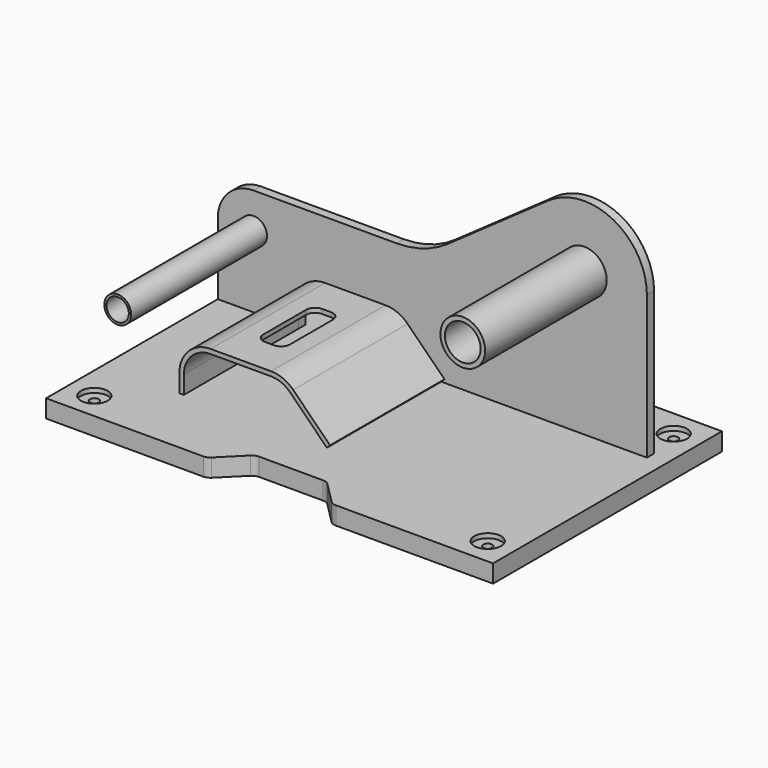
from build123d import *

# Parameters (mm, degrees)
F0_R           = 19.05
F0_R_2         = 31.75
F1_DEPTH       = 12.7
F3_DEPTH       = 25.4
F5_DEPTH       = 203.2
F6_R           = 31.75
F6_R_2         = 25.4000000767
F7_DEPTH       = 228.6
F8_R           = 19.05
F8_R_2         = 6.35
F9_DEPTH       = 6.35
F10_D          = 12.7
F11_R          = 19.05
F11_R_2        = 15.875
F12_DEPTH      = 25.4
F12_DEPTH_BACK = 254
F14_DEPTH      = 25.4


with BuildPart() as f1:
    # F0 (on Front) → F1 (new body)
    with BuildSketch(Plane.XZ):
        with BuildLine():
            Line((0, 101.6), (0, 0))
            Line((0, 0), (114.3, 0))
            Line((114.3, 0), (114.3, 25.4))
            ThreePointArc((114.3, 25.4), (125.4592316368, 52.3407683632), (152.4, 63.5))
            Line((152.4, 63.5), (238.2184632736, 63.5))
            ThreePointArc((238.2184632736, 63.5), (252.7987020467, 60.5998101887), (265.1592316368, 52.3407683632))
            Line((265.1592316368, 52.3407683632), (317.5, 0))
            Line((317.5, 0), (609.6, 0))
            Line((609.6, 0), (609.6, 203.2))
            ThreePointArc((609.6, 203.2), (561.634643106, 282.1149225038), (469.4973004774, 275.8738850041))
            Line((469.4973004774, 275.8738850041), (327.1467136038, 175.5801642798))
            ThreePointArc((327.1467136038, 175.5801642798), (292.3658758764, 158.3336563357), (254, 152.4))
            Line((254, 152.4), (50.8, 152.4))
            ThreePointArc((50.8, 152.4), (14.8789755157, 137.5210244843), (0, 101.6))
        make_face()
        with Locations((50.8, 101.6)):
            Circle(F0_R, mode=Mode.SUBTRACT)
        with Locations((520.7, 203.2)):
            Circle(F0_R_2, mode=Mode.SUBTRACT)
    extrude(amount=F1_DEPTH)


with BuildPart() as f3:
    # F2 (on face) → F3 (new body)
    with BuildSketch(Plane(origin=(0, 0, 0), x_dir=(1, 0, 0), z_dir=(0, 0, -1))):
        with BuildLine():
            Line((411.6605122421, -88.7394899882), (635, -88.7394899882))
            Line((635, -88.7394899882), (635, 317.6605100118))
            Line((635, 317.6605100118), (411.6605122421, 317.6605100118))
            ThreePointArc((411.6605122421, 317.6605100118), (406.8004326511, 316.6937800747), (402.6802561211, 313.9407661328))
            Line((402.6802561211, 313.9407661328), (372.0197438789, 283.2802538907))
            ThreePointArc((372.0197438789, 283.2802538907), (367.8995673489, 280.5272399489), (363.0394877579, 279.5605100118))
            Line((363.0394877579, 279.5605100118), (271.9605122421, 279.5605100118))
            ThreePointArc((271.9605122421, 279.5605100118), (267.1004326511, 280.5272399489), (262.9802561211, 283.2802538907))
            Line((262.9802561211, 283.2802538907), (232.3197438789, 313.9407661328))
            ThreePointArc((232.3197438789, 313.9407661328), (228.1995673489, 316.6937800747), (223.3394877579, 317.6605100118))
            Line((223.3394877579, 317.6605100118), (0, 317.6605100118))
            Line((0, 317.6605100118), (0, -88.7394899882))
            Line((0, -88.7394899882), (223.3394877579, -88.7394899882))
            ThreePointArc((223.3394877579, -88.7394899882), (228.1995673489, -87.7727600511), (232.3197438789, -85.0197461093))
            Line((232.3197438789, -85.0197461093), (262.9802561211, -54.3592338672))
            ThreePointArc((262.9802561211, -54.3592338672), (267.1004326511, -51.6062199253), (271.9605122421, -50.6394899882))
            Line((271.9605122421, -50.6394899882), (363.0394877579, -50.6394899882))
            ThreePointArc((363.0394877579, -50.6394899882), (367.8995673489, -51.6062199253), (372.0197438789, -54.3592338672))
            Line((372.0197438789, -54.3592338672), (402.6802561211, -85.0197461093))
            ThreePointArc((402.6802561211, -85.0197461093), (406.8004326511, -87.7727600511), (411.6605122421, -88.7394899882))
        make_face()
    extrude(amount=F3_DEPTH)

    # F8 (on face) → F9 (cut, symmetric)
    with BuildSketch(Plane.XY):
        with Locations((596.9, 50.6394899882)):
            Circle(F8_R)
        with Locations((596.9, 50.6394899882)):
            Circle(F8_R_2, mode=Mode.SUBTRACT)
        with Locations((38.1, 50.6394899882)):
            Circle(F8_R)
        with Locations((38.1, 50.6394899882)):
            Circle(F8_R_2, mode=Mode.SUBTRACT)
        with Locations((38.1, -279.5605100118)):
            Circle(F8_R)
        with Locations((38.1, -279.5605100118)):
            Circle(F8_R_2, mode=Mode.SUBTRACT)
        with Locations((596.9, -279.5605100118)):
            Circle(F8_R)
        with Locations((596.9, -279.5605100118)):
            Circle(F8_R_2, mode=Mode.SUBTRACT)
        with Locations((596.9, -279.5605100118)):
            Circle(F8_R_2)
        with Locations((596.9, 50.6394899882)):
            Circle(F8_R_2)
        with Locations((38.1, -279.5605100118)):
            Circle(F8_R_2)
        with Locations((38.1, 50.6394899882)):
            Circle(F8_R_2)
    extrude(amount=F9_DEPTH, both=True, mode=Mode.SUBTRACT)

    # F10 (through all)
    with Locations(Plane.XY):
        with Locations((38.1, -279.5605100118), (38.1, 50.6394899882), (596.9, -279.5605100118), (596.9, 50.6394899882)):
            Hole(F10_D / 2)


with BuildPart() as f5:
    # F4 (on face) → F5 (new body)
    with BuildSketch(Plane.XZ.offset(12.7)):
        with BuildLine():
            Line((107.95, 0), (114.3, 0))
            Line((114.3, 0), (114.3, 25.4))
            ThreePointArc((114.3, 25.4), (125.4592316368, 52.3407683632), (152.4, 63.5))
            Line((152.4, 63.5), (238.2184632736, 63.5))
            ThreePointArc((238.2184632736, 63.5), (252.7987020467, 60.5998101887), (265.1592316368, 52.3407683632))
            Line((265.1592316368, 52.3407683632), (317.5, 0))
            Line((317.5, 0), (321.9901280605, 4.4901280605))
            Line((321.9901280605, 4.4901280605), (269.6493596973, 56.8308964237))
            ThreePointArc((269.6493596973, 56.8308964237), (255.2287418422, 66.4664452201), (238.2184632736, 69.85))
            Line((238.2184632736, 69.85), (152.4, 69.85))
            ThreePointArc((152.4, 69.85), (120.9691035763, 56.8308964237), (107.95, 25.4))
            Line((107.95, 25.4), (107.95, 0))
        make_face()
    extrude(amount=F5_DEPTH)

    # F13 (on face) → F14 (cut)
    with BuildSketch(Plane.XY.offset(69.85)):
        with BuildLine():
            Line((201.6592316368, -63.5), (188.9592316368, -63.5))
            ThreePointArc((188.9592316368, -63.5), (179.9789755157, -67.2197438789), (176.2592316368, -76.2))
            Line((176.2592316368, -76.2), (176.2592316368, -152.4))
            ThreePointArc((176.2592316368, -152.4), (179.9789755157, -161.3802561211), (188.9592316368, -165.1))
            Line((188.9592316368, -165.1), (201.6592316368, -165.1))
            ThreePointArc((201.6592316368, -165.1), (210.6394877579, -161.3802561211), (214.3592316368, -152.4))
            Line((214.3592316368, -152.4), (214.3592316368, -76.2))
            ThreePointArc((214.3592316368, -76.2), (210.6394877579, -67.2197438789), (201.6592316368, -63.5))
        make_face()
    extrude(amount=-F14_DEPTH, mode=Mode.SUBTRACT)


with BuildPart() as f7:
    # F6 (on face) → F7 (new body)
    with BuildSketch(Plane(origin=(0, 0, 0), x_dir=(-1, 0, 0), z_dir=(0, 1, 0))):
        with Locations((-520.7, 203.2)):
            Circle(F6_R)
        with Locations((-520.7, 203.2)):
            Circle(F6_R_2, mode=Mode.SUBTRACT)
    extrude(amount=-F7_DEPTH)


with BuildPart() as f12:
    # F11 (on face) → F12 (new body, two sides)
    with BuildSketch(Plane(origin=(0, 0, 0), x_dir=(-1, 0, 0), z_dir=(0, 1, 0))) as f12_sk:
        with Locations((-50.8, 101.6)):
            Circle(F11_R)
        with Locations((-50.8, 101.6)):
            Circle(F11_R_2, mode=Mode.SUBTRACT)
    extrude(amount=F12_DEPTH)
    extrude(f12_sk.sketch, amount=-F12_DEPTH_BACK)


solid = Compound([f1.part, f3.part, f5.part, f7.part, f12.part])
